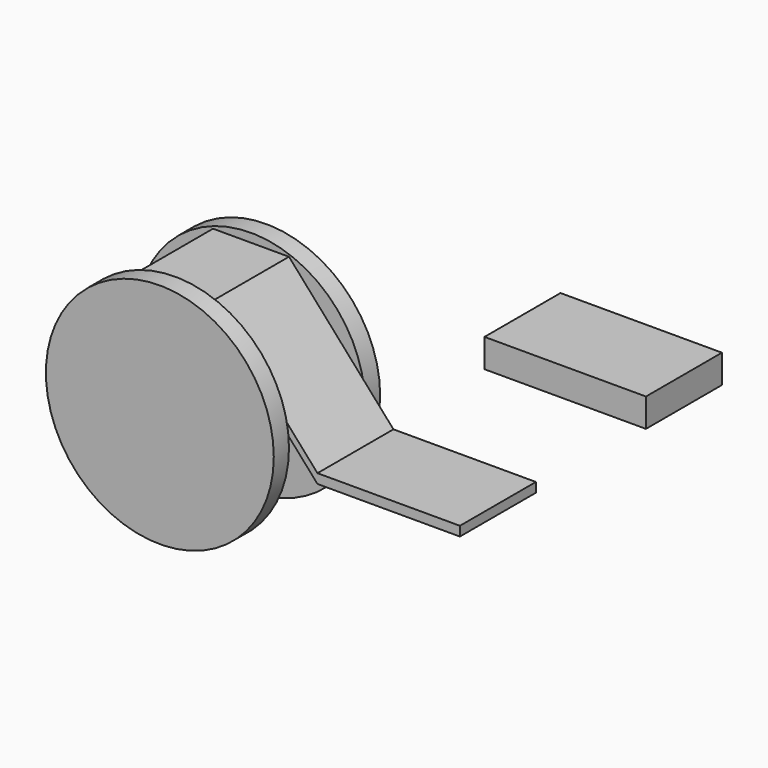
from build123d import *

# Parameters (mm, degrees)
F1_DEPTH  = 50
F0_W      = 21.4654916469
F0_H      = 10.2392081211
F2_W      = 21.4654916469
F2_H      = 4.7531977296
F2_H_2    = 5.4168240167
F3_DEPTH  = 25
F4_R      = 60
F4_W      = 21.4654916469
F4_H      = 35.2392081211
F5_DEPTH  = 10
F6_START  = -50
F6_DEPTH  = 10
F7_R      = 2.3919276082
F8_DEPTH  = 30
F10_W     = 85
F10_H     = 50
F11_DEPTH = 15


with BuildPart() as f1:
    # F0 (on Front) → F1 (new body)
    with BuildSketch(Plane.XZ):
        Polygon((-68.1759184846, 36.1026065934), (-108.1759184846, 36.1026065934), (-108.1759184846, 31.1026065934), (-68.1759184846, 31.1026065934), (-13.1759184846, -31.0028278501), (61.8240815154, -31.0028278501), (61.8240815154, -26.0028278501), (-13.1759184846, -26.0028278501), align=None)
    extrude(amount=F1_DEPTH)


with BuildPart() as f1b:
    # F0 (on Front) → F1, piece 2 (new body)
    with BuildSketch(Plane.XZ):
        with Locations((-88.1759184846, 1.0764846312)):
            Rectangle(F0_W, F0_H)
    extrude(amount=F1_DEPTH)

    # F2 (on face) → F3 (join)
    with BuildSketch(Plane(origin=(0, 0, -4.0431194294), x_dir=(1, 0, 0), z_dir=(0, 0, -1))):
        with Locations((-88.1759184846, 47.6234011352)):
            Rectangle(F2_W, F2_H)
        with Locations((-88.1759184846, 2.7084120084)):
            Rectangle(F2_W, F2_H_2)
    extrude(amount=F3_DEPTH)


with BuildPart() as f5:
    # F4 (on face) → F5 (new body)
    with BuildSketch(Plane.XZ.offset(50)):
        with Locations((-88.1759184846, -19.2563140502)):
            Circle(F4_R)
        with Locations((-88.1759184846, -11.4235153688)):
            Rectangle(F4_W, F4_H, mode=Mode.SUBTRACT)
        with Locations((-88.1759184846, -11.4235153688)):
            Rectangle(F4_W, F4_H)
    extrude(amount=F5_DEPTH)


with BuildPart() as f6:
    # F4 (on face) → F6 (new body)
    with BuildSketch(Plane.XZ.offset(50).offset(F6_START)):
        with Locations((-88.1759184846, -19.2563140502)):
            Circle(F4_R)
    extrude(amount=-F6_DEPTH)


with BuildPart() as f8:
    # F7 (on face) → F8 (new body)
    with BuildSketch(Plane(origin=(0, 0, -4.0431194294), x_dir=(1, 0, 0), z_dir=(0, 0, -1))):
        with Locations((-88.1759184846, 25.3318131436)):
            Circle(F7_R)
    extrude(amount=-F8_DEPTH)


with BuildPart() as f1_1:
    add(f1.part)

    # F9: cut F8
    add(f8.part, mode=Mode.SUBTRACT)


with BuildPart() as f1b_1:
    add(f1b.part)

    # F9: cut F8
    add(f8.part, mode=Mode.SUBTRACT)


with BuildPart() as f11:
    # F10 (on Top) → F11 (new body)
    with BuildSketch(Plane.XY):
        with Locations((56.3487377763, 51.1584613472)):
            Rectangle(F10_W, F10_H)
    extrude(amount=F11_DEPTH)


solid = Compound([f5.part, f6.part, f8.part, f1_1.part, f1b_1.part, f11.part])
